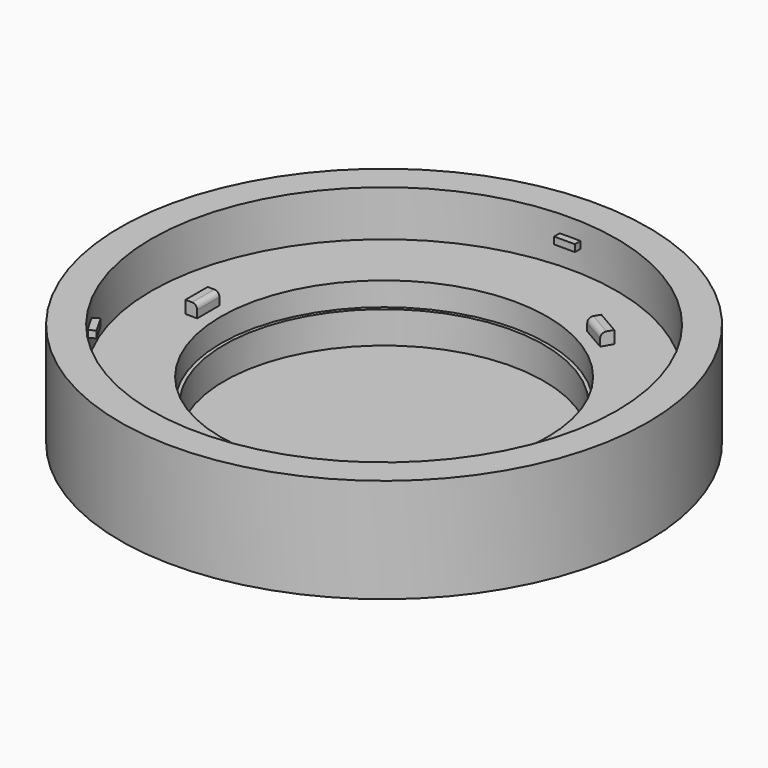
from build123d import *

# Parameters (mm, degrees)
SKETCH_R              = 38
PAD_DEPTH             = 15
SKETCH001_R           = 33.5
POCKET_DEPTH          = 6.6
SKETCH002_R           = 23.5
POCKET001_DEPTH       = 8
PAD001_DEPTH          = 0.5
POLARPATTERN_COUNT    = 3
SKETCH004_R           = 27.25
PAD002_DEPTH          = 5
PAD003_DEPTH          = 2
POLARPATTERN001_COUNT = 3
SKETCH006_R           = 23
POCKET002_DEPTH       = 4.6
FILLET_R              = 0.75
SKETCH007_R           = 33.25
SKETCH007_R_2         = 27.25
PAD004_DEPTH          = 5
SKETCH008_R           = 33.25
SKETCH008_R_2         = 32.25
PAD005_DEPTH          = 0.4


with BuildPart() as lightcover:
    # Sketch → Pad (new body)
    with BuildSketch(Plane.XY):
        Circle(SKETCH_R)
    extrude(amount=PAD_DEPTH)

    # Sketch001 (on Face3 of Pad) → Pocket (cut)
    with BuildSketch(Plane.XY.offset(15)):
        Circle(SKETCH001_R)
    extrude(amount=-POCKET_DEPTH, mode=Mode.SUBTRACT)

    # Sketch002 (on Face5 of Pocket) → Pocket001 (cut)
    with BuildSketch(Plane.XY.offset(8.4)):
        Circle(SKETCH002_R)
    extrude(amount=-POCKET001_DEPTH, mode=Mode.SUBTRACT)

    # Sketch003 (on DatumPlane) → Pad001 (join, symmetric)
    with BuildSketch(Plane.XY.offset(12)):
        with BuildLine():
            Line((-1.5, 32.466401), (1.5, 32.466401))
            Line((1.5, 32.466401), (1.5, 33.466401))
            ThreePointArc((1.5, 33.466401), (0, 33.5), (-1.5, 33.466401))
            Line((-1.5, 32.466401), (-1.5, 33.466401))
        make_face()
    pad001 = extrude(amount=PAD001_DEPTH, both=True)

    # PolarPattern: Pad001 ×3 about axis
    polarpattern_axis = Axis((0, 0, 12), (0, 0, 1))
    for i in range(1, POLARPATTERN_COUNT):
        add(pad001.rotate(polarpattern_axis, i * 360 / POLARPATTERN_COUNT))


with BuildPart() as obj1:
    # Sketch004 → Pad002 (new body)
    with BuildSketch(Plane.XY):
        Circle(SKETCH004_R)
    extrude(amount=PAD002_DEPTH)

    # Sketch005 → Pad003 (join, symmetric)
    with BuildSketch(Plane.XZ):
        Polygon((-27, 5), (-27, 10.2), (-25.3, 10.2), (-25.3, 7.2), (-26.2, 7.2), (-26.2, 5), align=None)
    pad003 = extrude(amount=PAD003_DEPTH, both=True)

    # PolarPattern001: Pad003 ×3 about axis
    polarpattern001_axis = Axis((0, 0, 0), (0, 0, 1))
    for i in range(1, POLARPATTERN001_COUNT):
        add(pad003.rotate(polarpattern001_axis, i * 360 / POLARPATTERN001_COUNT))

    # Sketch006 → Pocket002 (cut)
    with BuildSketch(Plane.XY.offset(5)):
        Circle(SKETCH006_R)
    extrude(amount=-POCKET002_DEPTH, mode=Mode.SUBTRACT)

    # Fillet
    fillet_edges = [obj1.edges().sort_by_distance(p)[0] for p in [
        (-25.3, 0, 10.2),
        (-25.3, 0, 7.2),
        (12.65, 21.910443, 10.2),
        (12.65, 21.910443, 7.2),
        (12.65, -21.910443, 10.2),
        (12.65, -21.910443, 7.2),
    ]]
    fillet(fillet_edges, radius=FILLET_R)

    # Sketch007 (on Face21 of Fillet) → Pad004 (join)
    with BuildSketch(Plane(origin=(0, 0, 0), x_dir=(1, 0, 0), z_dir=(0, 0, -1))):
        Circle(SKETCH007_R)
        Circle(SKETCH007_R_2, mode=Mode.SUBTRACT)
    extrude(amount=-PAD004_DEPTH)

    # Sketch008 (on Face11 of Pad004) → Pad005 (join)
    with BuildSketch(Plane.XY.offset(5)):
        Circle(SKETCH008_R)
        Circle(SKETCH008_R_2, mode=Mode.SUBTRACT)
    extrude(amount=PAD005_DEPTH)


solid = Compound([lightcover.part, obj1.part])
